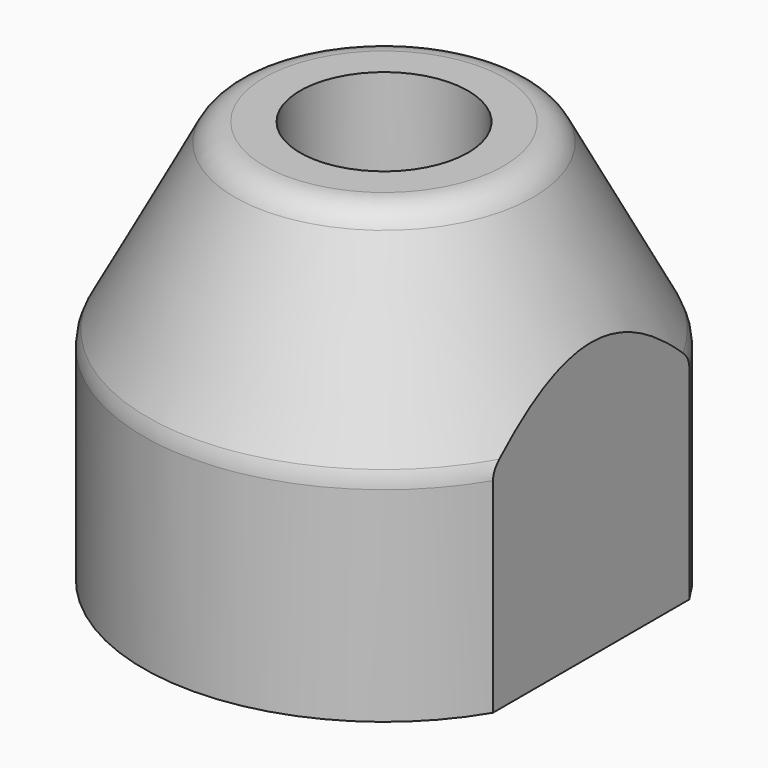
from build123d import *

# Parameters (mm, degrees)
F0_R           = 21.5
F1_DEPTH       = 19
F3_R           = 12.5
F1_FACE_R      = 21.5
F5_D           = 9
F5_CBORE_D     = 15
F5_CBORE_DEPTH = 8
F7_W           = 63.3691456169
F7_H           = 26.0395370424
F8_DEPTH       = 3
F9_R           = 3
F10_R          = 3


with BuildPart() as f1:
    # F0 (on Top) → F1 (new body)
    with BuildSketch(Plane.XY):
        Circle(F0_R)
    extrude(amount=F1_DEPTH)

    # F3 (on offset) → F4 section 0
    with BuildSketch(Plane.XY.offset(36)):
        Circle(F3_R)
    # F1_face (on face) → F4 section 1
    with BuildSketch(Plane.XY.offset(19)):
        Circle(F1_FACE_R)
    loft()

    # F5 (through all)
    with Locations(Plane.XY.offset(36)):
        with Locations((0, 0)):
            CounterBoreHole(F5_D / 2, F5_CBORE_D / 2, F5_CBORE_DEPTH)

    # F7 (on offset) → F8 (cut)
    with BuildSketch(Plane.YZ.offset(21.5)):
        with Locations((0.5912268534, 13.0197685212)):
            Rectangle(F7_W, F7_H)
    extrude(amount=-F8_DEPTH, mode=Mode.SUBTRACT)

    # F9
    f9_edges = [f1.edges().sort_by_distance(p)[0] for p in [
        (-12.5, 0, 36),
    ]]
    fillet(f9_edges, radius=F9_R)

    # F10
    f10_edges = [f1.edges().sort_by_distance(p)[0] for p in [
        (-21.5, 0, 19),
    ]]
    fillet(f10_edges, radius=F10_R)


solid = f1.part
